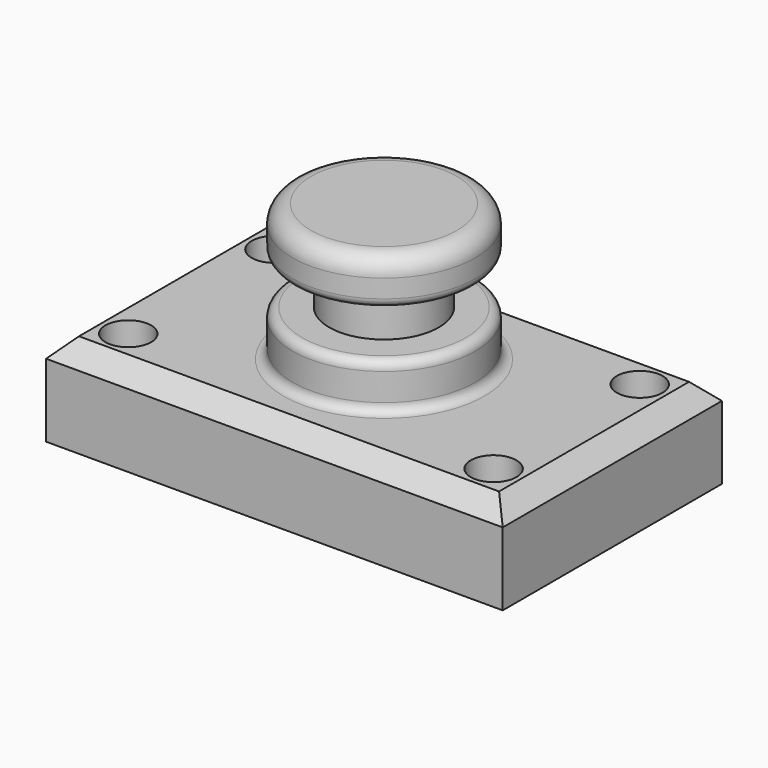
from build123d import *

# Parameters (mm, degrees)
F0_W     = 127
F0_H     = 76.2
F1_DEPTH = 25.4
F2_R     = 6.35
F3_DEPTH = 25.401
F4_W     = 25.4
F4_H     = 38.1
F6_W     = 25.4
F6_H     = 12.7
F8_SIZE  = 5.08
F9_R     = 2.54
F10_R    = 5.08


with BuildPart() as f1:
    # F0 (on Top) → F1 (new body)
    with BuildSketch(Plane.XY):
        Rectangle(F0_W, F0_H)
    extrude(amount=F1_DEPTH)

    # F2 (on face) → F3 (cut, through all)
    with BuildSketch(Plane.XY.offset(25.4)):
        with Locations((50.8, 25.4)):
            Circle(F2_R)
        with Locations((50.8, -25.4)):
            Circle(F2_R)
        with Locations((-50.8, -25.4)):
            Circle(F2_R)
        with Locations((-50.8, 25.4)):
            Circle(F2_R)
    extrude(amount=-F3_DEPTH, mode=Mode.SUBTRACT)

    # F4 (on Front) → F5 (revolve)
    with BuildSketch(Plane.XZ):
        with Locations((-12.7, 44.45)):
            Rectangle(F4_W, F4_H)
    revolve(axis=Axis((0, 0, 44.45), (0, 0, 1)))

    # F6 (on Front) → F7 (revolve, cut)
    with BuildSketch(Plane.XZ):
        with Locations((-27.94, 44.45)):
            Rectangle(F6_W, F6_H)
    revolve(axis=Axis((0, 0, 63.5), (0, 0, -1)), mode=Mode.SUBTRACT)

    # F8
    f8_edges = [f1.edges().sort_by_distance(p)[0] for p in [
        (63.5, 0, 25.4),
        (0, 38.1, 25.4),
        (-63.5, 0, 25.4),
        (0, -38.1, 25.4),
    ]]
    chamfer(f8_edges, length=F8_SIZE)

    # F9
    f9_edges = [f1.edges().sort_by_distance(p)[0] for p in [
        (25.4, 0, 38.1),
        (25.4, 0, 25.4),
        (25.4, 0, 50.8),
    ]]
    fillet(f9_edges, radius=F9_R)

    # F10
    f10_edges = [f1.edges().sort_by_distance(p)[0] for p in [
        (25.4, 0, 63.5),
    ]]
    fillet(f10_edges, radius=F10_R)


solid = f1.part
